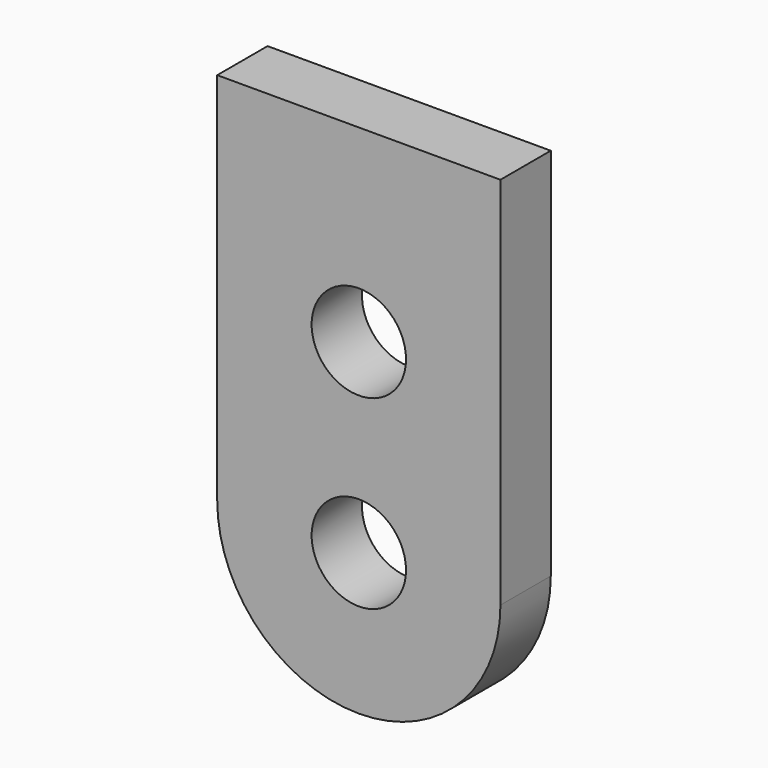
from build123d import *

# Parameters (mm, degrees)
PAD_DEPTH  = 5
SKETCH_R   = 7.5
HOLE_DEPTH = 10.001


with BuildPart() as part:
    # Sketch004 → Pad (new body, symmetric)
    with BuildSketch(Plane.XZ.offset(12.5)):
        with BuildLine():
            Line((-22.5, 59.5), (-22.5, -6e-05))
            ThreePointArc((-22.5, -6e-05), (0, -22.5), (22.5, -6e-05))
            Line((22.5, 59.5), (22.5, -6e-05))
            Line((-22.5, 59.5), (22.5, 59.5))
        make_face()
    extrude(amount=PAD_DEPTH, both=True)

    # Sketch (on Face6 of Pad) → Hole (cut, through all)
    with BuildSketch(Plane.XZ.offset(17.5)):
        Circle(SKETCH_R)
        with Locations((0, 29.5)):
            Circle(SKETCH_R)
    extrude(amount=-HOLE_DEPTH, mode=Mode.SUBTRACT)


solid = part.part
